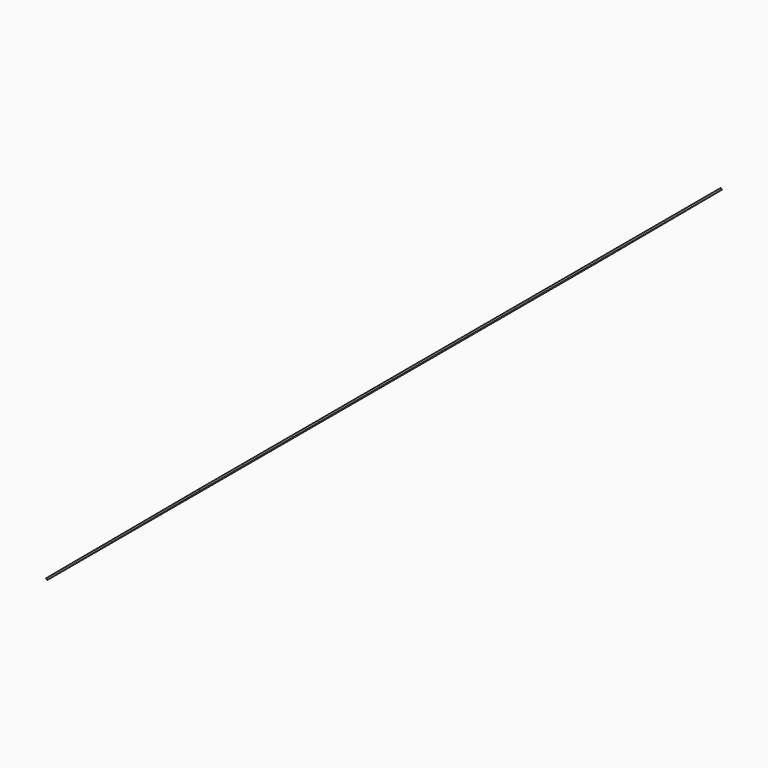
from build123d import *

# Parameters (mm, degrees)
PAD_DEPTH       = 2.15
POCKET_DEPTH    = 10
POCKET001_DEPTH = 12.5
CHAMFER_SIZE    = 0.7
PAD001_DEPTH    = 0.01


with BuildPart() as chamfer_body:
    # Sketch → Pad (new body, symmetric)
    with BuildSketch(Plane.XZ):
        Polygon((-3.311958576, 2.9), (3.311958576, 2.9), (3.55, 1.55), (3.311958576, 0.2), (2.1, 0.2), (2.1, 0), (-2.1, 0), (-2.1, 0.2), (-3.311958576, 0.2), (-3.55, 1.55), align=None)
    extrude(amount=PAD_DEPTH, both=True)

    # Sketch001 → Pocket (cut, symmetric)
    with BuildSketch(Plane(origin=(2.1, 0, 0), x_dir=(0, 0, 1), z_dir=(1, 0, 0))):
        Polygon((2.9220926693, 2.229851), (3.3067026402, 1.8717656945), (1.045841, 2.229851), align=None)
        Polygon((3.3067026402, -1.8717656945), (2.9220926693, -2.229851), (1.045841, -2.229851), align=None)
    extrude(amount=POCKET_DEPTH, both=True, mode=Mode.SUBTRACT)

    # Sketch002 → Pocket001 (cut, symmetric)
    with BuildSketch(Plane(origin=(2.1, 0, 0), x_dir=(0, 0, 1), z_dir=(1, 0, 0))):
        Polygon((2.1937543082, 2.2519614985), (-0.4776096389, 2.2519614985), (-0.6097972306, 1.8079225571), align=None)
        Polygon((2.1937543082, -2.2519614985), (-0.4776096389, -2.2519614985), (-0.6097972306, -1.8079225571), align=None)
    extrude(amount=POCKET001_DEPTH, both=True, mode=Mode.SUBTRACT)

    # Chamfer
    chamfer_edges = [chamfer_body.edges().sort_by_distance(p)[0] for p in [
        (-3.311959, 0, 2.9),
    ]]
    chamfer(chamfer_edges, length=CHAMFER_SIZE)


with BuildPart() as cut:
    # Pad001 base: copy of Chamfer body
    add(chamfer_body.part)

    # Sketch010 → Pad001 (new body)
    with BuildSketch(Plane(origin=(-2.5071696065, 0, 2.9879283857), x_dir=(-0.7660444431, 0, -0.6427876097), z_dir=(-0.6427876097, 0, 0.7660444431))):
        Polygon((0.1367922847, 1.9361810645), (1.2092545051, 2.0453658219), (1.2092545051, -2.0453658219), (0.1367922847, -1.9361810645), align=None)
    extrude(amount=PAD001_DEPTH)

    # Cut: cut Chamfer body
    add(chamfer_body.part, mode=Mode.SUBTRACT)


solid = cut.part
